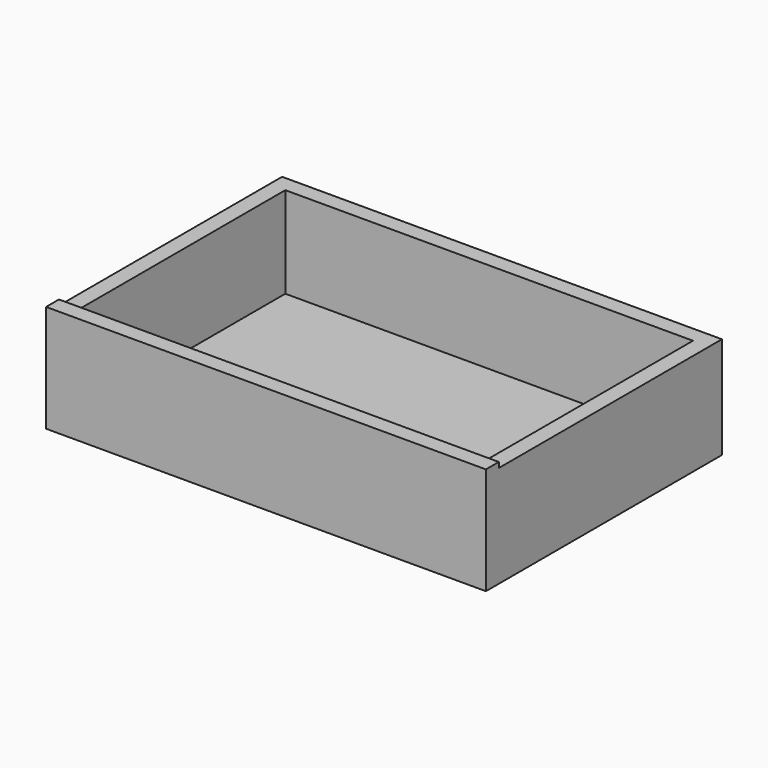
from build123d import *

# Parameters (mm, degrees)
F0_W      = 520.7
F0_H      = 127
F1_DEPTH  = 19.05
F3_DEPTH  = 311.15
F5_W      = 520.7
F5_H      = 120.65
F6_DEPTH  = 19.05
F7_W      = 501.65
F7_H      = 6.35
F8_DEPTH  = 6.35
F9_W      = 501.65
F9_H      = 6.35
F10_DEPTH = 317.5


with BuildPart() as f1:
    # F0 (on Front) → F1 (new body)
    with BuildSketch(Plane.XZ):
        Rectangle(F0_W, F0_H)
    extrude(amount=-F1_DEPTH)

    # F2 (on face) → F3 (join)
    with BuildSketch(Plane(origin=(0, 19.05, 0), x_dir=(-1, 0, 0), z_dir=(0, 1, 0))):
        Polygon((-260.35, 57.15), (-260.35, -63.5), (-241.3, -63.5), (-241.3, -57.15), (-250.825, -57.15), (-250.825, -50.8), (-241.3, -50.8), (-241.3, 57.15), align=None)
    extrude(amount=F3_DEPTH)

    # F4: F1 across plane


with BuildPart() as f1_1:
    add(f1.part)
    add(f1.part.mirror(Plane.YZ))

    # F5 (on face) → F6 (join)
    with BuildSketch(Plane(origin=(0, 330.2, 0), x_dir=(-1, 0, 0), z_dir=(0, 1, 0))):
        with Locations((0, -3.175)):
            Rectangle(F5_W, F5_H)
    extrude(amount=F6_DEPTH)

    # F7 (on face) → F8 (cut)
    with BuildSketch(Plane.XZ.offset(-330.2)):
        with Locations((0, -53.975)):
            Rectangle(F7_W, F7_H)
    extrude(amount=-F8_DEPTH, mode=Mode.SUBTRACT)

    # F9 (on face) → F10 (join, through all)
    with BuildSketch(Plane(origin=(0, 19.05, 0), x_dir=(-1, 0, 0), z_dir=(0, 1, 0))):
        with Locations((0, -53.975)):
            Rectangle(F9_W, F9_H)
    extrude(amount=F10_DEPTH)


solid = f1_1.part
